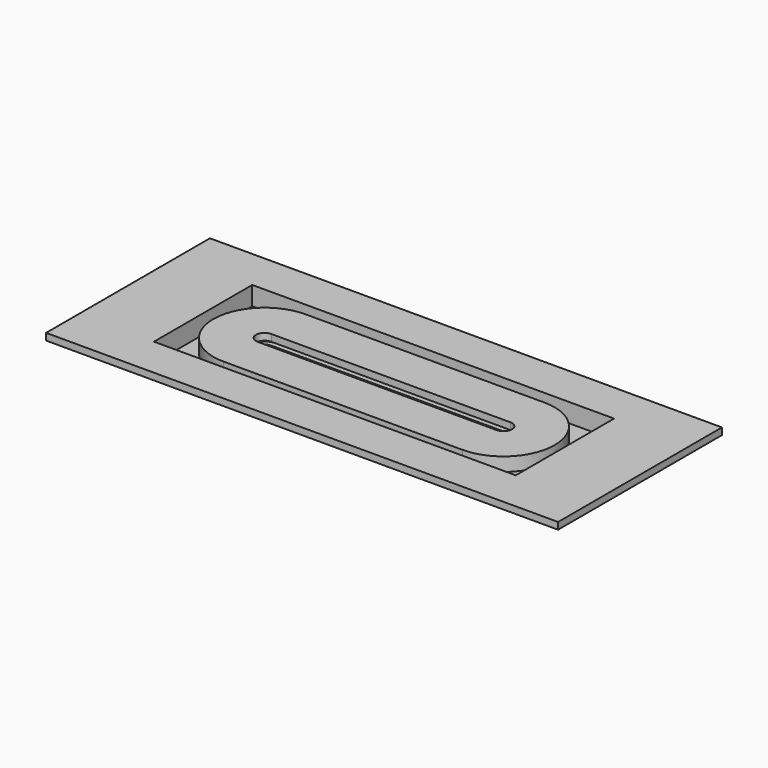
from build123d import *

# Parameters (mm, degrees)
F0_W      = 279.4
F0_H      = 101.6
F1_DEPTH  = 5.08
F3_DEPTH  = 5.081
F5_DEPTH  = 5.08
F8_DEPTH  = 5.08
F10_DEPTH = 5.08
F11_R     = 6.35
F11_R_2   = 3.81
F12_DEPTH = 2.54
F13_R     = 3.683
F13_R_2   = 2.54
F14_DEPTH = 5.08
F15_W     = 279.4
F15_H     = 101.6
F15_W_2   = 269.24
F15_H_2   = 91.44
F16_DEPTH = 13.97
F17_W     = 31.75
F17_H     = 2.54
F18_DEPTH = 0.254
F19_W     = 6.35
F19_H     = 2.54
F20_DEPTH = 0.254
F21_W     = 381
F21_H     = 152.4
F21_W_2   = 279.4
F21_H_2   = 101.6
F22_DEPTH = 5.08


with BuildPart() as f1:
    # F0 (on Top) → F1 (new body)
    with BuildSketch(Plane.XY):
        Rectangle(F0_W, F0_H)
    extrude(amount=F1_DEPTH)

    # F2 (on face) → F3 (cut, through all)
    with BuildSketch(Plane.XY.offset(5.08)):
        with BuildLine():
            ThreePointArc((-88.9, 6.35), (-95.25, 0), (-88.9, -6.35))
            Line((-88.9, -6.35), (88.9, -6.35))
            ThreePointArc((88.9, -6.35), (95.25, 0), (88.9, 6.35))
            Line((88.9, 6.35), (-88.9, 6.35))
        make_face()
    extrude(amount=-F3_DEPTH, mode=Mode.SUBTRACT)

    # F4 (on face) → F5 (join)
    with BuildSketch(Plane.XY.offset(5.08)):
        with BuildLine():
            Line((88.9, 10.16), (-88.9, 10.16))
            ThreePointArc((-88.9, 10.16), (-99.06, 0), (-88.9, -10.16))
            Line((-88.9, -10.16), (88.9, -10.16))
            ThreePointArc((88.9, -10.16), (99.06, 0), (88.9, 10.16))
        make_face()
        with BuildLine():
            ThreePointArc((-88.9, -6.35), (-95.25, 0), (-88.9, 6.35))
            Line((-88.9, 6.35), (88.9, 6.35))
            ThreePointArc((88.9, 6.35), (95.25, 0), (88.9, -6.35))
            Line((88.9, -6.35), (-88.9, -6.35))
        make_face(mode=Mode.SUBTRACT)
    extrude(amount=F5_DEPTH)

    # F11 (on face) → F12 (join)
    with BuildSketch(Plane.XY.offset(5.08)):
        with Locations((-88.9, -19.05)):
            Circle(F11_R)
        with Locations((-88.9, -19.05)):
            Circle(F11_R_2, mode=Mode.SUBTRACT)
        with Locations((-88.9, 19.05)):
            Circle(F11_R)
        with Locations((-88.9, 19.05)):
            Circle(F11_R_2, mode=Mode.SUBTRACT)
        with Locations((88.9, -19.05)):
            Circle(F11_R)
        with Locations((88.9, -19.05)):
            Circle(F11_R_2, mode=Mode.SUBTRACT)
        with Locations((88.9, 19.05)):
            Circle(F11_R)
        with Locations((88.9, 19.05)):
            Circle(F11_R_2, mode=Mode.SUBTRACT)
    extrude(amount=F12_DEPTH)

    # F15 (on face) → F16 (join)
    with BuildSketch(Plane.XY.offset(5.08)):
        Rectangle(F15_W, F15_H)
        Rectangle(F15_W_2, F15_H_2, mode=Mode.SUBTRACT)
    extrude(amount=F16_DEPTH)

    # F17 (on face) → F18 (cut)
    with BuildSketch(Plane.XY.offset(5.08)):
        with Locations((-118.745, 0)):
            Rectangle(F17_W, F17_H)
        with Locations((118.745, 0)):
            Rectangle(F17_W, F17_H)
    extrude(amount=-F18_DEPTH, mode=Mode.SUBTRACT)

    # F21 (on face) → F22 (join)
    with BuildSketch(Plane.XY.offset(19.05)):
        Rectangle(F21_W, F21_H)
        Rectangle(F21_W_2, F21_H_2, mode=Mode.SUBTRACT)
    extrude(amount=-F22_DEPTH)


with BuildPart() as f8:
    # F7 (on offset) → F8 (new body)
    with BuildSketch(Plane.XY.offset(12.7)):
        with BuildLine():
            Line((88.9, 38.1), (-88.9, 38.1))
            ThreePointArc((-88.9, 38.1), (-127, 0), (-88.9, -38.1))
            Line((-88.9, -38.1), (88.9, -38.1))
            ThreePointArc((88.9, -38.1), (127, 0), (88.9, 38.1))
        make_face()
        with BuildLine():
            ThreePointArc((-88.9, -6.35), (-95.25, 0), (-88.9, 6.35))
            Line((-88.9, 6.35), (88.9, 6.35))
            ThreePointArc((88.9, 6.35), (95.25, 0), (88.9, -6.35))
            Line((88.9, -6.35), (-88.9, -6.35))
        make_face(mode=Mode.SUBTRACT)
    extrude(amount=F8_DEPTH)

    # F9 (on face) → F10 (join)
    with BuildSketch(Plane(origin=(0, 0, 12.7), x_dir=(1, 0, 0), z_dir=(0, 0, -1))):
        with BuildLine():
            Line((88.9, 38.1), (-88.9, 38.1))
            ThreePointArc((-88.9, 38.1), (-127, 0), (-88.9, -38.1))
            Line((-88.9, -38.1), (88.9, -38.1))
            ThreePointArc((88.9, -38.1), (127, 0), (88.9, 38.1))
        make_face()
        with BuildLine():
            ThreePointArc((-88.9, -33.02), (-121.92, 0), (-88.9, 33.02))
            Line((-88.9, 33.02), (88.9, 33.02))
            ThreePointArc((88.9, 33.02), (121.92, 0), (88.9, -33.02))
            Line((88.9, -33.02), (-88.9, -33.02))
        make_face(mode=Mode.SUBTRACT)
    extrude(amount=F10_DEPTH)

    # F13 (on face) → F14 (join)
    with BuildSketch(Plane(origin=(0, 0, 12.7), x_dir=(1, 0, 0), z_dir=(0, 0, -1))):
        with Locations((-88.9, -19.05)):
            Circle(F13_R)
        with Locations((-88.9, -19.05)):
            Circle(F13_R_2, mode=Mode.SUBTRACT)
        with Locations((-88.9, 19.05)):
            Circle(F13_R)
        with Locations((-88.9, 19.05)):
            Circle(F13_R_2, mode=Mode.SUBTRACT)
        with Locations((88.9, -19.05)):
            Circle(F13_R)
        with Locations((88.9, -19.05)):
            Circle(F13_R_2, mode=Mode.SUBTRACT)
        with Locations((88.9, 19.05)):
            Circle(F13_R)
        with Locations((88.9, 19.05)):
            Circle(F13_R_2, mode=Mode.SUBTRACT)
    extrude(amount=F14_DEPTH)

    # F19 (on face) → F20 (cut)
    with BuildSketch(Plane(origin=(0, 0, 7.62), x_dir=(1, 0, 0), z_dir=(0, 0, -1))):
        with Locations((-124.46, 0)):
            Rectangle(F19_W, F19_H)
        with Locations((124.46, 0)):
            Rectangle(F19_W, F19_H)
    extrude(amount=-F20_DEPTH, mode=Mode.SUBTRACT)


solid = Compound([f1.part, f8.part])
